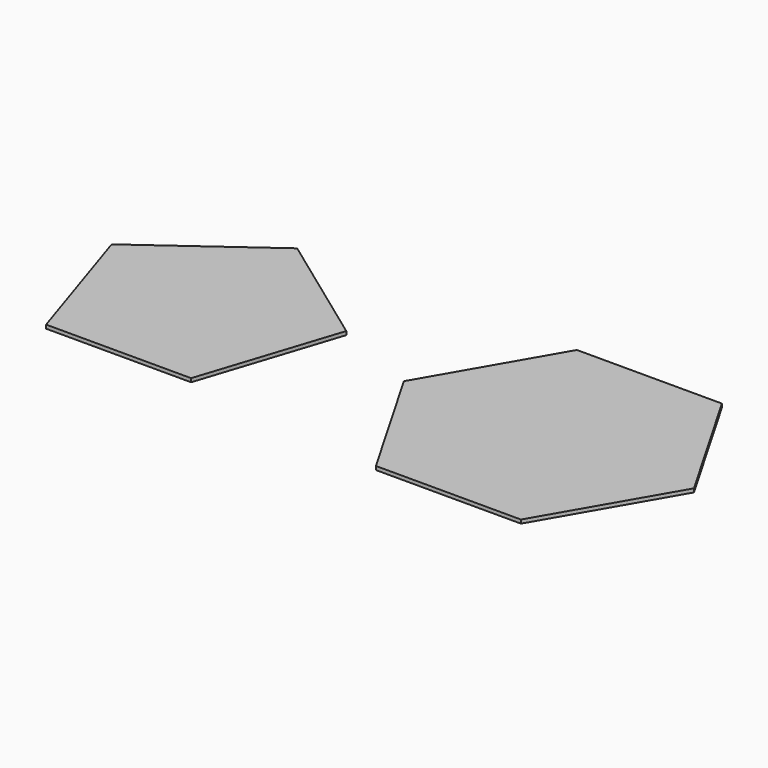
from build123d import *

# Parameters (mm, degrees)
F1_DEPTH = 1
F3_DEPTH = 1


with BuildPart() as f1:
    # F0 (on Top) → F1 (new body)
    with BuildSketch(Plane.XY):
        Polygon((-20, -34.641016), (20, -34.641016), (40, 0), (20, 34.641016), (-20, 34.641016), (-40, 0), align=None)
    extrude(amount=F1_DEPTH)


with BuildPart() as f3:
    # F2 (on Top) → F3 (new body)
    with BuildSketch(Plane.XY):
        Polygon((-116.652588, -27.527638), (-76.652588, -27.527638), (-64.291908, 10.514622), (-96.652588, 34.026032), (-129.013268, 10.514622), align=None)
    extrude(amount=F3_DEPTH)


solid = Compound([f1.part, f3.part])
